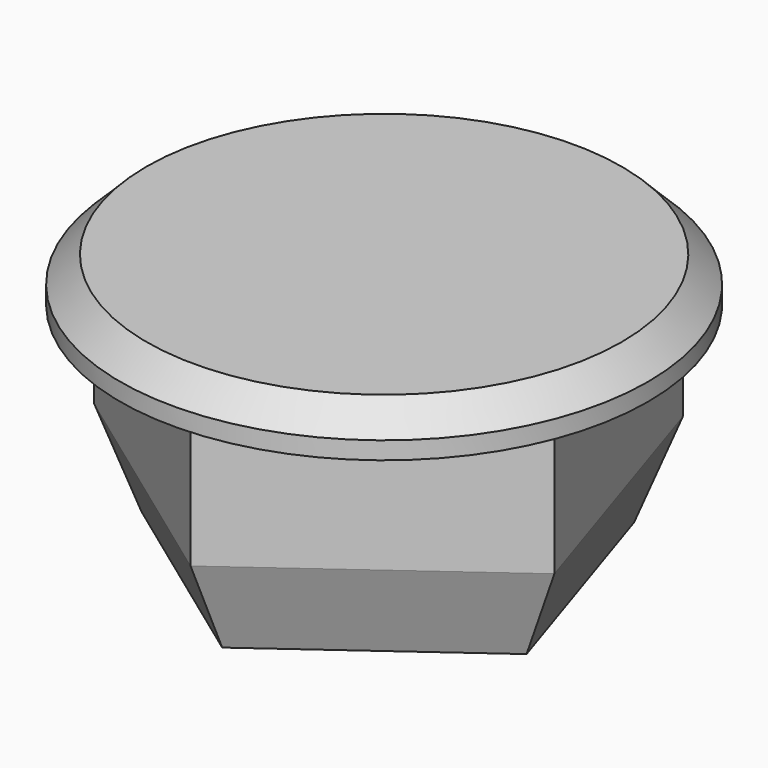
from build123d import *

# Parameters (mm, degrees)
F0_R     = 6
F1_DEPTH = 1
F2_SIZE  = 0.6
F3_R     = 3.5
F4_DEPTH = 5
F5_SIZE2 = 0.72794
F5_SIZE  = 2


with BuildPart() as f1:
    # F0 (on Top) → F1 (new body)
    with BuildSketch(Plane.XY):
        Circle(F0_R)
    extrude(amount=F1_DEPTH)

    # F2
    f2_edges = [f1.edges().sort_by_distance(p)[0] for p in [
        (-6, 0, 1),
    ]]
    chamfer(f2_edges, length=F2_SIZE)

    # F3 (on face) → F4 (join)
    with BuildSketch(Plane(origin=(0, 0, 0), x_dir=(1, 0, 0), z_dir=(0, 0, -1))):
        Polygon((5.230811, 1.699593), (0, 5.5), (-5.230811, 1.699593), (-3.232819, -4.449593), (3.232819, -4.449593), align=None)
        Circle(F3_R, mode=Mode.SUBTRACT)
    extrude(amount=F4_DEPTH)

    # F5
    f5_edges = [f1.edges().sort_by_distance(p)[0] for p in [
        (-2.615405, -3.599797, -5),
        (-4.231815, 1.375, -5),
        (0, 4.449593, -5),
        (4.231815, 1.375, -5),
        (2.615405, -3.599797, -5),
    ]]
    chamfer(f5_edges, length=F5_SIZE, length2=F5_SIZE2)


solid = f1.part
